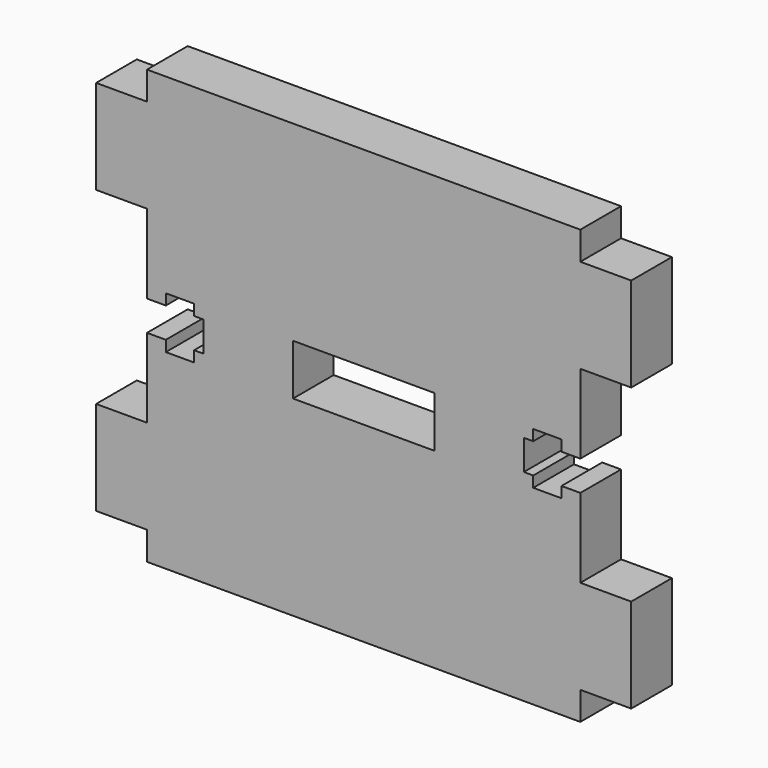
from build123d import *

# Parameters (mm, degrees)
F1_W     = 15
F1_H     = 5.4
F2_DEPTH = 5.4


with BuildPart() as f2:
    # F1 (on Front) → F2 (new body)
    with BuildSketch(Plane.XZ):
        Polygon((0, 3), (0, 0), (46, 0), (46, 3), (51.4, 3), (51.4, 13), (46, 13), (46, 21.4), (44, 21.4), (44, 20.25), (41, 20.25), (41, 21.4), (40, 21.4), (40, 23), (40, 24.6), (41, 24.6), (41, 25.75), (44, 25.75), (44, 24.6), (46, 24.6), (46, 33), (51.4, 33), (51.4, 43), (46, 43), (46, 46), (0, 46), (0, 43), (-5.4, 43), (-5.4, 33), (0, 33), (0, 24.6), (2, 24.6), (2, 25.75), (5, 25.75), (5, 24.6), (6, 24.6), (6, 23), (6, 21.4), (5, 21.4), (5, 20.25), (2, 20.25), (2, 21.4), (0, 21.4), (0, 13), (-5.4, 13), (-5.4, 3), align=None)
        with Locations((23, 23)):
            Rectangle(F1_W, F1_H, mode=Mode.SUBTRACT)
    extrude(amount=F2_DEPTH)


solid = f2.part
